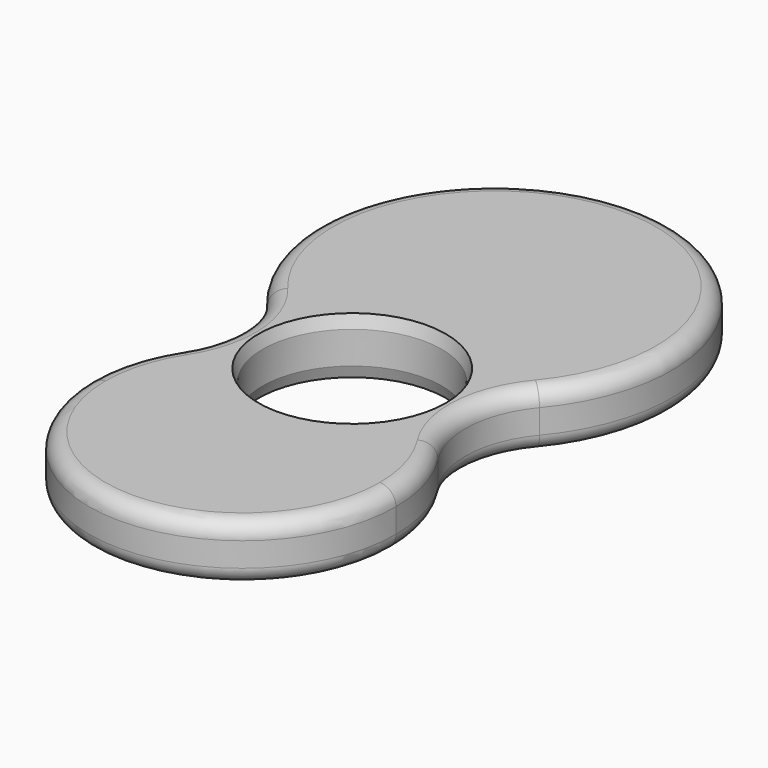
from build123d import *

# Parameters (mm, degrees)
F0_R     = 11.1
F1_DEPTH = 7
F2_SIZE2 = 0.5
F2_SIZE  = 1.5
F3_R     = 2


with BuildPart() as f1:
    # F0 (on Top) → F1 (new body)
    with BuildSketch(Plane.XY):
        with BuildLine():
            ThreePointArc((-30.871365, 7.905008), (-28.023647, 0.762863), (-29.966515, -6.676558))
            ThreePointArc((-29.966515, -6.676558), (-32.225858, -11.607357), (-33, -16.975606))
            Line((-33, -16.975606), (5, -16.975606))
            ThreePointArc((5, -16.975606), (4.225858, -11.607357), (1.966515, -6.676558))
            ThreePointArc((1.966515, -6.676558), (0.023647, 0.762863), (2.871365, 7.905008))
            ThreePointArc((2.871365, 7.905008), (-14, 44.024394), (-30.871365, 7.905008))
        make_face()
        with Locations((-14, 0)):
            Circle(F0_R, mode=Mode.SUBTRACT)
        with BuildLine():
            Line((5, -16.975606), (-33, -16.975606))
            ThreePointArc((-33, -16.975606), (-14, -35.975606), (5, -16.975606))
        make_face()
    extrude(amount=F1_DEPTH)

    # F2
    f2_edges = [f1.edges().sort_by_distance(p)[0] for p in [
        (-25.1, 0, 7),
        (-25.1, 0, 0),
    ]]
    chamfer(f2_edges, length=F2_SIZE, length2=F2_SIZE2)

    # F3
    f3_edges = [f1.edges().sort_by_distance(p)[0] for p in [
        (-14, -35.975606, 7),
        (-14, -35.975606, 0),
    ]]
    fillet(f3_edges, radius=F3_R)


solid = f1.part
